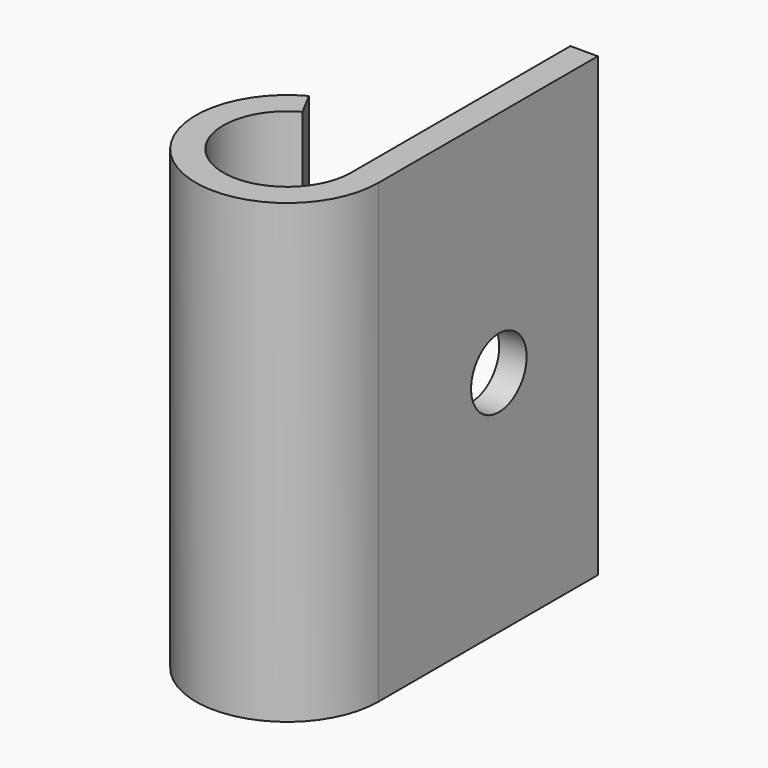
from build123d import *

# Parameters (mm, degrees)
F1_DEPTH = 25
F3_D     = 3.8
F3_DEPTH = 20


with BuildPart() as f1:
    # F0 (on Top) → F1 (new body)
    with BuildSketch(Plane.XY):
        with BuildLine():
            ThreePointArc((3.5, 0), (-1.804479, -2.998976), (-1.639346, 3.092337))
            Line((-1.639346, 3.092337), (-2.341922, 4.417624))
            ThreePointArc((-2.341922, 4.417624), (-2.577827, -4.284251), (5, 0))
            Line((5, 0), (5, 15))
            Line((5, 15), (3.5, 15))
            Line((3.5, 15), (3.5, 0))
        make_face()
    extrude(amount=F1_DEPTH)

    # F3
    with Locations(Plane(origin=(3.5, 0, 0), x_dir=(0, -1, 0), z_dir=(-1, 0, 0))):
        with Locations((-8.230869, 12.5)):
            Hole(F3_D / 2, depth=F3_DEPTH)


solid = f1.part
